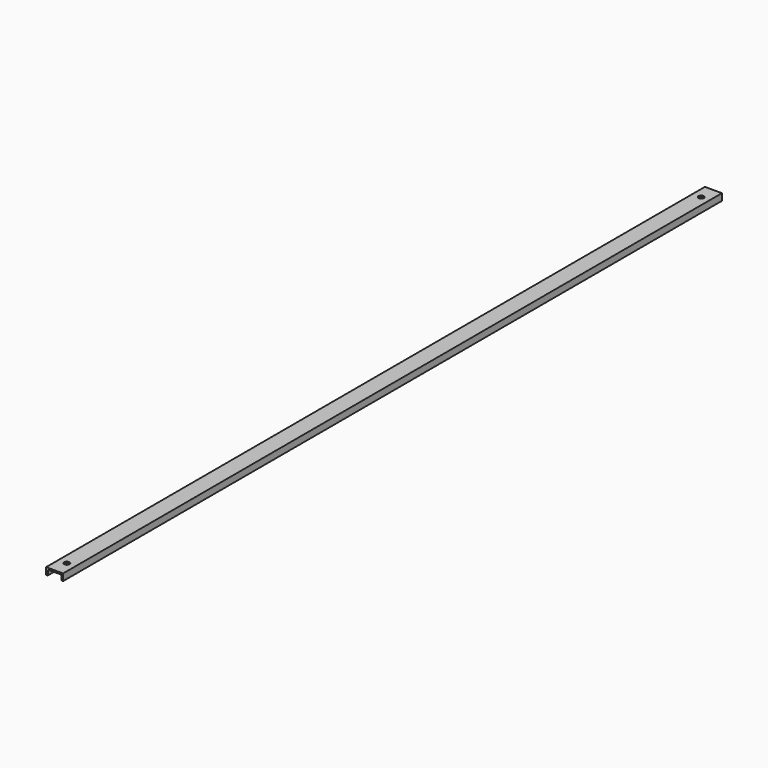
from build123d import *

# Parameters (mm, degrees)
F1_DEPTH = 1536.7
F2_R     = 5
F3_DEPTH = 25.4


with BuildPart() as f1:
    # F0 (on Front) → F1 (new body)
    with BuildSketch(Plane.XZ):
        Polygon((17.614564, -2.693408), (-14.135436, -2.693408), (-14.135436, -15.393408), (-10.960436, -15.393408), (-10.960436, -5.868408), (14.439564, -5.868408), (14.439564, -15.393408), (17.614564, -15.393408), align=None)
    extrude(amount=F1_DEPTH)

    # F2 (on face) → F3 (cut)
    with BuildSketch(Plane.XY.offset(-2.693408)):
        with Locations((1.739564, -1508.125)):
            Circle(F2_R)
        with Locations((1.739564, -28.575)):
            Circle(F2_R)
    extrude(amount=-F3_DEPTH, mode=Mode.SUBTRACT)


solid = f1.part
